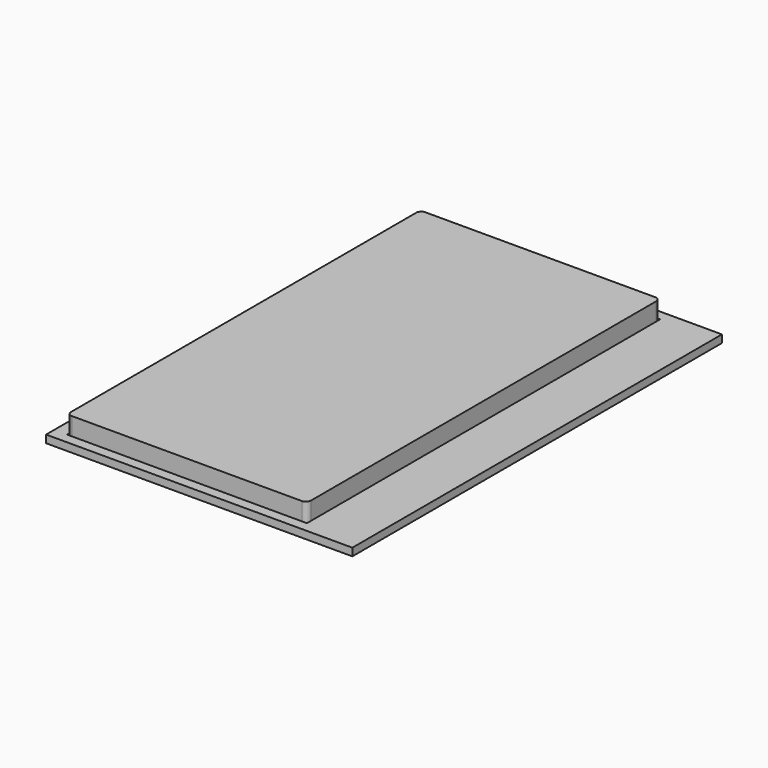
from build123d import *

# Parameters (mm, degrees)
BOX001_W     = 94
BOX001_H     = 173
BOX001_DEPTH = 10
BOX_W        = 120
BOX_H        = 181
BOX_DEPTH    = 3
FILLET_R     = 2


with BuildPart() as cube001:
    # Box001 → Box001 (new body)
    with BuildSketch(Plane(origin=(7, 4, 0), x_dir=(1, 0, 0), z_dir=(0, 0, 1))):
        with Locations((47, 86.5)):
            Rectangle(BOX001_W, BOX001_H)
    extrude(amount=BOX001_DEPTH)


with BuildPart() as cut:
    # Box → Box (new body)
    with BuildSketch(Plane(origin=(2, 0, 0), x_dir=(1, 0, 0), z_dir=(0, 0, 1))):
        with Locations((60, 90.5)):
            Rectangle(BOX_W, BOX_H)
    extrude(amount=BOX_DEPTH)

    # Cut: cut Cube001
    add(cube001.part, mode=Mode.SUBTRACT)


with BuildPart() as fillet_body:
    # Fillet base: copy of Cube001
    add(cube001.part)

    # Fillet
    fillet_edges = [fillet_body.edges().sort_by_distance(p)[0] for p in [
        (7, 4, 5),
        (7, 177, 5),
        (101, 4, 5),
        (101, 177, 5),
    ]]
    fillet(fillet_edges, radius=FILLET_R)


solid = Compound([cut.part, fillet_body.part])
